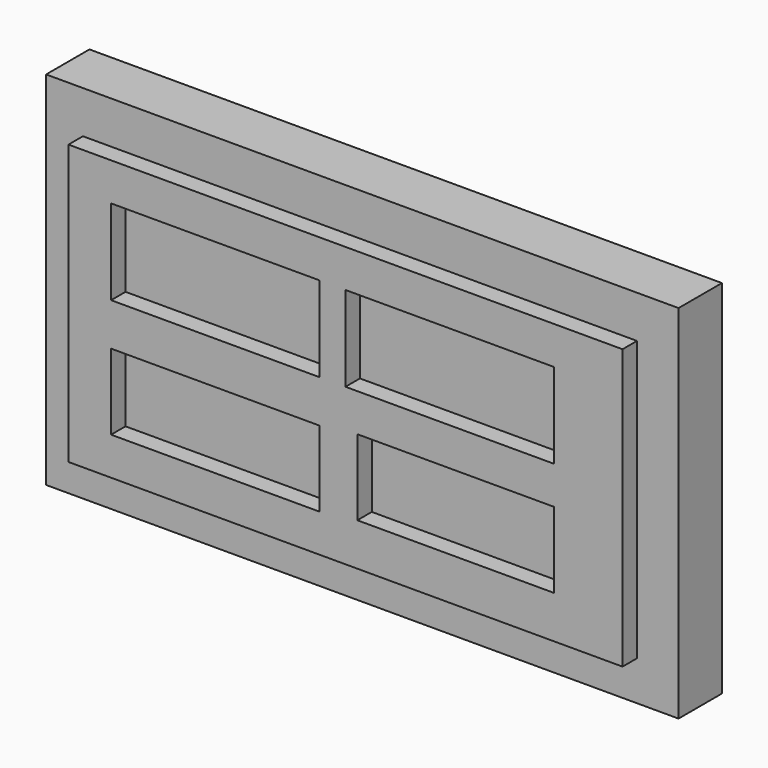
from build123d import *

# Parameters (mm, degrees)
F0_W        = 30.6613992434
F0_H        = 15.4617307708
F0_W_2      = 11.5307830274
F0_H_2      = 4.1930116713
F0_W_3      = 10.8756236732
F0_H_3      = 4.7171385959
F0_W_4      = 11.5307817468
F1_DEPTH    = 1
F0_W_5      = 35
F0_H_4      = 20
F2_DEPTH    = 2
F1_FACE_W   = 30.6613992434
F1_FACE_H   = 15.4617307708
F1_FACE_W_2 = 11.5307830274
F1_FACE_H_2 = 4.1930116713
F1_FACE_W_3 = 10.8756236732
F1_FACE_H_3 = 4.7171385959
F1_FACE_W_4 = 11.5307817468
F3_DEPTH    = 3


with BuildPart() as f1:
    # F0 (on Front) → F1 (new body)
    with BuildSketch(Plane.XZ):
        with Locations((-11.5307817468, -16.9030786492)):
            Rectangle(F0_W, F0_H)
        with Locations((-18.7375210226, -20.4409323633)):
            Rectangle(F0_W_2, F0_H_2, mode=Mode.SUBTRACT)
        with Locations((-5.4378118366, -20.1788693666)):
            Rectangle(F0_W_3, F0_H_2, mode=Mode.SUBTRACT)
        with Locations((-18.7375210226, -13.6272883974)):
            Rectangle(F0_W_2, F0_H_3, mode=Mode.SUBTRACT)
        with Locations((-5.7653908734, -13.6272883974)):
            Rectangle(F0_W_4, F0_H_3, mode=Mode.SUBTRACT)
    extrude(amount=F1_DEPTH)

    # F0 (on Front) → F2 (join)
    with BuildSketch(Plane.XZ):
        with Locations((-11.3997505978, -16.8241263426)):
            Rectangle(F0_W_5, F0_H_4)
        with Locations((-11.5307817468, -16.9030786492)):
            Rectangle(F0_W, F0_H, mode=Mode.SUBTRACT)
    extrude(amount=F2_DEPTH)

    # F0 (on Front) + F1_face (on face) → F3 (join)
    with BuildSketch(Plane.XZ):
        with Locations((-11.3997505978, -16.8241263426)):
            Rectangle(F0_W_5, F0_H_4)
        with Locations((-11.5307817468, -16.9030786492)):
            Rectangle(F0_W, F0_H, mode=Mode.SUBTRACT)
        with Locations((-5.7653908734, -13.6272883974)):
            Rectangle(F0_W_4, F0_H_3)
        with Locations((-18.7375210226, -20.4409323633)):
            Rectangle(F0_W_2, F0_H_2)
        with Locations((-5.4378118366, -20.1788693666)):
            Rectangle(F0_W_3, F0_H_2)
        with Locations((-18.7375210226, -13.6272883974)):
            Rectangle(F0_W_2, F0_H_3)
    with BuildSketch(Plane(origin=(-10.9817153045, -1, -17.0354699919), x_dir=(1, 0, 0), z_dir=(0, -1, 0))):
        with Locations((-0.5490664423, 0.1323913427)):
            Rectangle(F1_FACE_W, F1_FACE_H)
        with Locations((-7.755805718, -3.4054623714)):
            Rectangle(F1_FACE_W_2, F1_FACE_H_2, mode=Mode.SUBTRACT)
        with Locations((5.5439034679, -3.1433993748)):
            Rectangle(F1_FACE_W_3, F1_FACE_H_2, mode=Mode.SUBTRACT)
        with Locations((-7.755805718, 3.4081815945)):
            Rectangle(F1_FACE_W_2, F1_FACE_H_3, mode=Mode.SUBTRACT)
        with Locations((5.2163244311, 3.4081815945)):
            Rectangle(F1_FACE_W_4, F1_FACE_H_3, mode=Mode.SUBTRACT)
    extrude(amount=F3_DEPTH)


solid = f1.part
